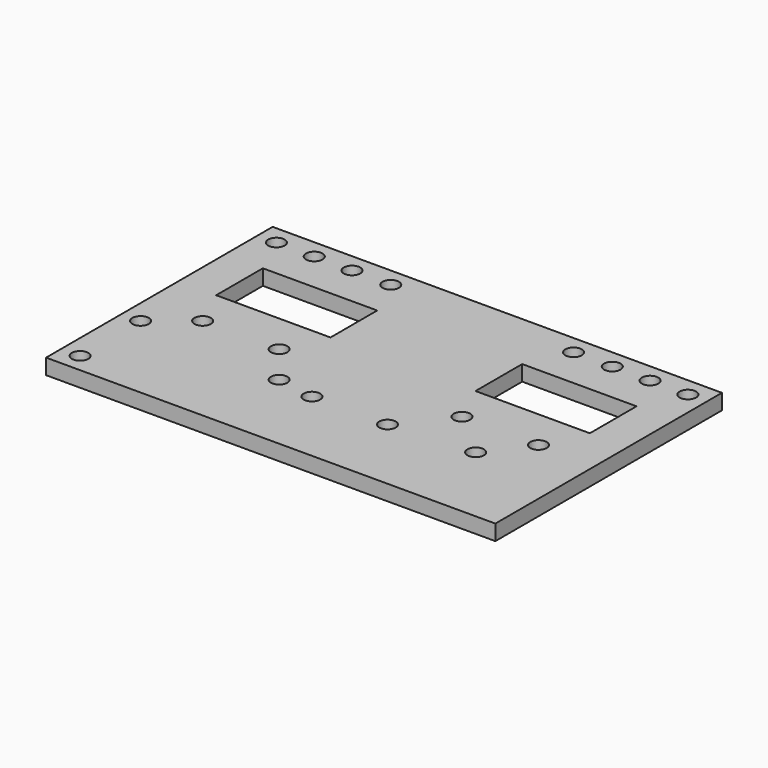
from build123d import *

# Parameters (mm, degrees)
F0_R     = 1.7272
F0_W     = 24
F0_H     = 12.254687
F1_DEPTH = 3.2512


with BuildPart() as f1:
    # F0 (on Top) → F1 (new body)
    with BuildSketch(Plane.XY):
        Polygon((94.31227, 0), (0, 0), (0, -59.449995), (94.31227, -59.449995), (94.31227, -18.612498), align=None)
        with Locations((3.96875, -55.481245)):
            Circle(F0_R, mode=Mode.SUBTRACT)
        with Locations((3.96875, -39.606245)):
            Circle(F0_R, mode=Mode.SUBTRACT)
        with Locations((11.90625, -33.256245)):
            Circle(F0_R, mode=Mode.SUBTRACT)
        with Locations((34.733674, -41.71249)):
            Circle(F0_R, mode=Mode.SUBTRACT)
        with Locations((42.671175, -43.033084)):
            Circle(F0_R, mode=Mode.SUBTRACT)
        with Locations((27.968753, -33.256245)):
            Circle(F0_R, mode=Mode.SUBTRACT)
        with Locations((58.546175, -43.033084)):
            Circle(F0_R, mode=Mode.SUBTRACT)
        with Locations((66.343517, -33.256245)):
            Circle(F0_R, mode=Mode.SUBTRACT)
        with Locations((75.993511, -41.71249)):
            Circle(F0_R, mode=Mode.SUBTRACT)
        with Locations((82.40602, -33.256245)):
            Circle(F0_R, mode=Mode.SUBTRACT)
        with Locations((19.9375, -18.612497)):
            Rectangle(F0_W, F0_H, mode=Mode.SUBTRACT)
        with Locations((3.96875, -3.96875)):
            Circle(F0_R, mode=Mode.SUBTRACT)
        with Locations((11.90625, -3.96875)):
            Circle(F0_R, mode=Mode.SUBTRACT)
        with Locations((19.84375, -3.96875)):
            Circle(F0_R, mode=Mode.SUBTRACT)
        with Locations((27.968753, -3.96875)):
            Circle(F0_R, mode=Mode.SUBTRACT)
        Polygon((86.37477, -12.485154), (86.37477, -18.612498), (86.37477, -24.739841), (62.37477, -24.739841), (62.37477, -12.485154), align=None, mode=Mode.SUBTRACT)
        with Locations((66.343517, -3.96875)):
            Circle(F0_R, mode=Mode.SUBTRACT)
        with Locations((74.46852, -3.96875)):
            Circle(F0_R, mode=Mode.SUBTRACT)
        with Locations((82.40602, -3.96875)):
            Circle(F0_R, mode=Mode.SUBTRACT)
        with Locations((90.34352, -3.96875)):
            Circle(F0_R, mode=Mode.SUBTRACT)
    extrude(amount=F1_DEPTH)


solid = f1.part
